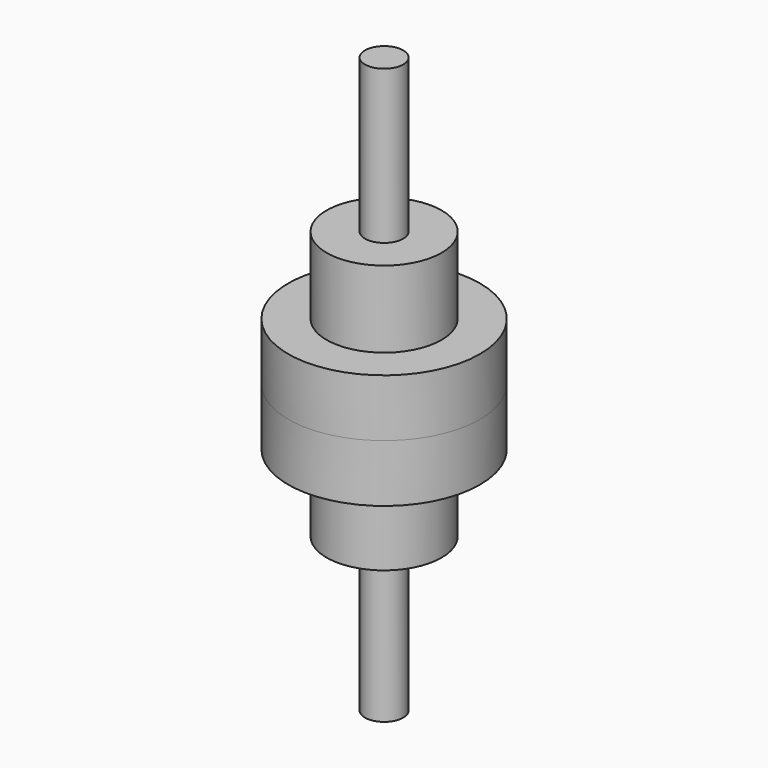
from build123d import *

# Parameters (mm, degrees)
F0_R     = 10
F1_DEPTH = 150
F0_R_2   = 50
F0_R_3   = 30
F2_DEPTH = 30
F3_DEPTH = 70
F4_DEPTH = 150
F5_DEPTH = 70
F6_DEPTH = 30


with BuildPart() as f1:
    # F0 (on Top) → F1 (new body)
    with BuildSketch(Plane.XY):
        Circle(F0_R)
    extrude(amount=F1_DEPTH)

    # F0 (on Top) → F4 (join)
    with BuildSketch(Plane.XY):
        Circle(F0_R)
    extrude(amount=-F4_DEPTH)


with BuildPart() as f2:
    # F0 (on Top) → F2 (new body)
    with BuildSketch(Plane.XY):
        Circle(F0_R_2)
        Circle(F0_R_3, mode=Mode.SUBTRACT)
    extrude(amount=F2_DEPTH)


with BuildPart() as f3:
    # F0 (on Top) → F3 (new body)
    with BuildSketch(Plane.XY):
        Circle(F0_R_3)
        Circle(F0_R, mode=Mode.SUBTRACT)
    extrude(amount=F3_DEPTH)


with BuildPart() as f5:
    # F0 (on Top) → F5 (new body)
    with BuildSketch(Plane.XY):
        Circle(F0_R_3)
        Circle(F0_R, mode=Mode.SUBTRACT)
    extrude(amount=-F5_DEPTH)


with BuildPart() as f6:
    # F0 (on Top) → F6 (new body)
    with BuildSketch(Plane.XY):
        Circle(F0_R_2)
        Circle(F0_R_3, mode=Mode.SUBTRACT)
    extrude(amount=-F6_DEPTH)


solid = Compound([f1.part, f2.part, f3.part, f5.part, f6.part])
